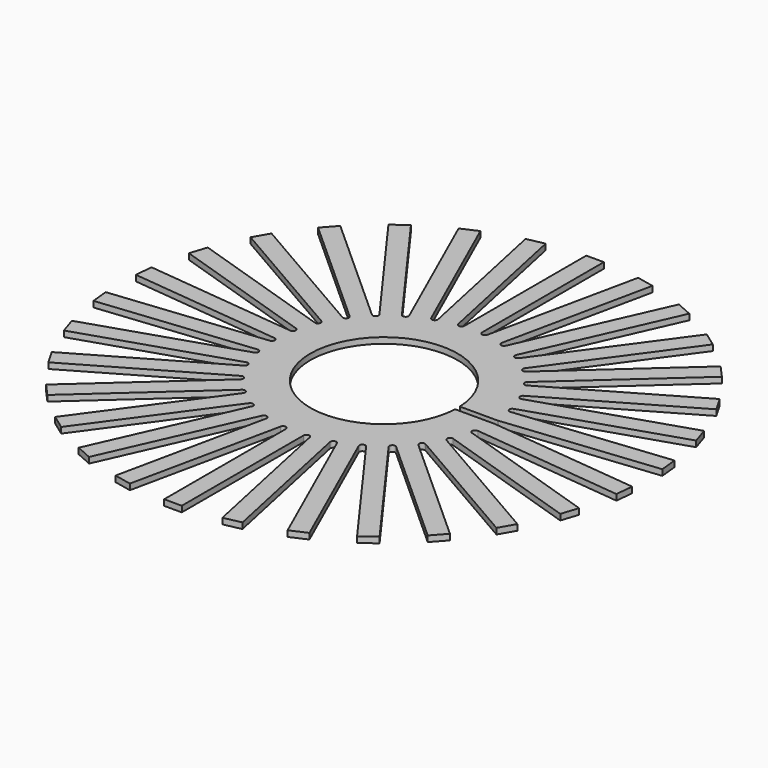
from build123d import *

# Parameters (mm, degrees)
F1_DEPTH = 1.27
F2_R     = 15.9385
F3_DEPTH = 25.4
F4_R     = 0.635
F5_R     = 0.635
F6_R     = 0.635
F7_W     = 41.0254188918
F7_H     = 1.27
F8_DEPTH = 25.4


with BuildPart() as f1:
    # F0 (on Top) → F1 (new body)
    with BuildSketch(Plane.XY):
        Polygon((1.905, 18.1248642853), (1.905, 13.1982271537), (1.3871895718, 13.1982271537), (4.1009418748, 12.6214012949), (3.6278985102, 12.8320137702), (5.6317423588, 17.3327207433), (13.7389212788, 55.4739987931), (10.01217892, 56.2661423351), align=None)
        Polygon((1.3871895718, 13.1982271537), (1.905, 13.1982271537), (1.905, 18.1248642853), (0.8806945439, 13.3058859953), align=None)
        Polygon((-1.3871895718, 13.1982271537), (1.3871895718, 13.1982271537), (0.8806945439, 13.3058859953), (1.905, 18.1248642853), (1.905, 57.1182411757), (-1.905, 57.1182411757), (-1.905, 18.1248642853), (-0.8806945439, 13.3058859953), align=None)
        Polygon((-4.1009418748, 12.6214012949), (-1.3871895718, 13.1982271537), (-1.905, 13.1982271537), (-1.905, 18.1248642853), (-10.01217892, 56.2661423351), (-13.7389212788, 55.4739987931), (-5.6317423588, 17.3327207433), (-3.6278985102, 12.8320137702), align=None)
        Polygon((-1.905, 13.1982271537), (-1.3871895718, 13.1982271537), (-0.8806945439, 13.3058859953), (-1.905, 18.1248642853), align=None)
        Polygon((4.6074369027, 12.5137424533), (4.1009418748, 12.6214012949), (6.6354633393, 11.4929596354), (6.2165459031, 11.7973209686), (9.1123505524, 15.7830541332), (24.972385771, 51.4052764695), (21.4917775774, 52.9549430796), (5.6317423588, 17.3327207433), align=None)
        Polygon((3.6278985102, 12.8320137702), (4.1009418748, 12.6214012949), (4.6074369027, 12.5137424533), (5.6317423588, 17.3327207433), align=None)
        Polygon((-6.6354633393, 11.4929596354), (-4.1009418748, 12.6214012949), (-4.6074369027, 12.5137424533), (-5.6317423588, 17.3327207433), (-21.4917775774, 52.9549430796), (-24.972385771, 51.4052764695), (-9.1123505524, 15.7830541332), (-6.2165459031, 11.7973209686), align=None)
        Polygon((-4.6074369027, 12.5137424533), (-4.1009418748, 12.6214012949), (-3.6278985102, 12.8320137702), (-5.6317423588, 17.3327207433), align=None)
        Polygon((7.1085067038, 11.2823471601), (6.6354633393, 11.4929596354), (8.8799832154, 9.8622204905), (8.5335004096, 10.2470286307), (12.194705301, 13.5435923219), (35.1144371742, 45.0898968943), (32.0320824256, 47.3293587055), (9.1123505524, 15.7830541332), align=None)
        Polygon((6.2165459031, 11.7973209686), (6.6354633393, 11.4929596354), (7.1085067038, 11.2823471601), (9.1123505524, 15.7830541332), align=None)
        Polygon((-8.8799832154, 9.8622204905), (-6.6354633393, 11.4929596354), (-7.1085067038, 11.2823471601), (-9.1123505524, 15.7830541332), (-32.0320824256, 47.3293587055), (-35.1144371742, 45.0898968943), (-12.194705301, 13.5435923219), (-8.5335004096, 10.2470286307), align=None)
        Polygon((-7.1085067038, 11.2823471601), (-6.6354633393, 11.4929596354), (-6.2165459031, 11.7973209686), (-9.1123505524, 15.7830541332), align=None)
        Polygon((9.2989006516, 9.5578591573), (8.8799832154, 9.8622204905), (10.7364052141, 7.8004549859), (10.4775, 8.248891971), (14.7440929112, 10.7122105369), (43.7218191752, 36.8038724595), (41.1724315649, 39.6352542446), (12.194705301, 13.5435923219), align=None)
        Polygon((8.5335004096, 10.2470286307), (8.8799832154, 9.8622204905), (9.2989006516, 9.5578591573), (12.194705301, 13.5435923219), align=None)
        Polygon((-10.7364052141, 7.8004549859), (-8.8799832154, 9.8622204905), (-9.2989006516, 9.5578591573), (-12.194705301, 13.5435923219), (-41.1724315649, 39.6352542446), (-43.7218191752, 36.8038724595), (-14.7440929112, 10.7122105369), (-10.4775, 8.248891971), align=None)
        Polygon((-9.2989006516, 9.5578591573), (-8.8799832154, 9.8622204905), (-8.5335004096, 10.2470286307), (-12.194705301, 13.5435923219), align=None)
        Polygon((11.0828880198, 7.4156468457), (10.7364052141, 7.8004549859), (12.1235947859, 5.3977721678), (11.9635825638, 5.8902391496), (16.6490929112, 7.4126537484), (50.4183478776, 26.9093421936), (48.5133478776, 30.208898982), (14.7440929112, 10.7122105369), align=None)
        Polygon((10.4775, 8.248891971), (10.7364052141, 7.8004549859), (11.0828880198, 7.4156468457), (14.7440929112, 10.7122105369), align=None)
        Polygon((-12.1235947859, 5.3977721678), (-10.7364052141, 7.8004549859), (-11.0828880198, 7.4156468457), (-14.7440929112, 10.7122105369), (-48.5133478776, 30.208898982), (-50.4183478776, 26.9093421936), (-16.6490929112, 7.4126537484), (-11.9635825638, 5.8902391496), align=None)
        Polygon((-11.0828880198, 7.4156468457), (-10.7364052141, 7.8004549859), (-10.4775, 8.248891971), (-14.7440929112, 10.7122105369), align=None)
        Polygon((12.3825, 4.9493351826), (12.1235947859, 5.3977721678), (12.9809250902, 2.7591808045), (12.9267991618, 3.2741546129), (17.8264476598, 3.7891284214), (54.9113528437, 15.8387445485), (53.7339980951, 19.4622698756), (16.6490929112, 7.4126537484), align=None)
        Polygon((11.9635825638, 5.8902391496), (12.1235947859, 5.3977721678), (12.3825, 4.9493351826), (16.6490929112, 7.4126537484), align=None)
        Polygon((-12.9809250902, 2.7591808045), (-12.1235947859, 5.3977721678), (-12.3825, 4.9493351826), (-16.6490929112, 7.4126537484), (-53.7339980951, 19.4622698756), (-54.9113528437, 15.8387445485), (-17.8264476598, 3.7891284214), (-12.9267991618, 3.2741546129), align=None)
        Polygon((-12.3825, 4.9493351826), (-12.1235947859, 5.3977721678), (-11.9635825638, 5.8902391496), (-16.6490929112, 7.4126537484), align=None)
        Polygon((13.1409373123, 2.2667138226), (12.9809250902, 2.7591808045), (13.2709266786, 0), (13.3250526069, 0.5149738084), (18.2247011048, 0), (57.0044681966, 4.075917764), (56.6062147516, 7.8650461853), (17.8264476598, 3.7891284214), align=None)
        Polygon((12.9267991618, 3.2741546129), (12.9809250902, 2.7591808045), (13.1409373123, 2.2667138226), (17.8264476598, 3.7891284214), align=None)
        Polygon((-13.2709266786, 0), (-12.9809250902, 2.7591808045), (-13.1409373123, 2.2667138226), (-17.8264476598, 3.7891284214), (-56.6062147516, 7.8650461853), (-57.0044681966, 4.075917764), (-18.2247011048, 0), (-13.3250526069, 0.5149738084), align=None)
        Polygon((-13.1409373123, 2.2667138226), (-12.9809250902, 2.7591808045), (-12.9267991618, 3.2741546129), (-17.8264476598, 3.7891284214), align=None)
        Polygon((13.3250526069, -0.5149738084), (13.2709266786, 0), (12.9809250902, -2.7591808045), (13.1409373123, -2.2667138226), (17.8264476598, -3.7891284214), (56.6062147516, -7.8650461853), (57.0044681966, -4.075917764), (18.2247011048, 0), align=None)
        Polygon((13.3250526069, 0.5149738084), (13.2709266786, 0), (13.3250526069, -0.5149738084), (18.2247011048, 0), align=None)
        Polygon((-12.9809250902, -2.7591808045), (-13.2709266786, 0), (-13.3250526069, -0.5149738084), (-18.2247011048, 0), (-57.0044681966, -4.075917764), (-56.6062147516, -7.8650461853), (-17.8264476598, -3.7891284214), (-13.1409373123, -2.2667138226), align=None)
        Polygon((-13.3250526069, -0.5149738084), (-13.2709266786, 0), (-13.3250526069, 0.5149738084), (-18.2247011048, 0), align=None)
        Polygon((12.9267991618, -3.2741546129), (12.9809250902, -2.7591808045), (12.1235947859, -5.3977721678), (12.3825, -4.9493351826), (16.6490929112, -7.4126537484), (53.7339980951, -19.4622698756), (54.9113528437, -15.8387445485), (17.8264476598, -3.7891284214), align=None)
        Polygon((13.1409373123, -2.2667138226), (12.9809250902, -2.7591808045), (12.9267991618, -3.2741546129), (17.8264476598, -3.7891284214), align=None)
        Polygon((-12.1235947859, -5.3977721678), (-12.9809250902, -2.7591808045), (-12.9267991618, -3.2741546129), (-17.8264476598, -3.7891284214), (-54.9113528437, -15.8387445485), (-53.7339980951, -19.4622698756), (-16.6490929112, -7.4126537484), (-12.3825, -4.9493351826), align=None)
        Polygon((-12.9267991618, -3.2741546129), (-12.9809250902, -2.7591808045), (-13.1409373123, -2.2667138226), (-17.8264476598, -3.7891284214), align=None)
        Polygon((11.9635825638, -5.8902391496), (12.1235947859, -5.3977721678), (10.7364052141, -7.8004549859), (11.0828880198, -7.4156468457), (14.7440929112, -10.7122105369), (48.5133478776, -30.208898982), (50.4183478776, -26.9093421936), (16.6490929112, -7.4126537484), align=None)
        Polygon((12.3825, -4.9493351826), (12.1235947859, -5.3977721678), (11.9635825638, -5.8902391496), (16.6490929112, -7.4126537484), align=None)
        Polygon((-10.7364052141, -7.8004549859), (-12.1235947859, -5.3977721678), (-11.9635825638, -5.8902391496), (-16.6490929112, -7.4126537484), (-50.4183478776, -26.9093421936), (-48.5133478776, -30.208898982), (-14.7440929112, -10.7122105369), (-11.0828880198, -7.4156468457), align=None)
        Polygon((-11.9635825638, -5.8902391496), (-12.1235947859, -5.3977721678), (-12.3825, -4.9493351826), (-16.6490929112, -7.4126537484), align=None)
        Polygon((10.4775, -8.248891971), (10.7364052141, -7.8004549859), (8.8799832154, -9.8622204905), (9.2989006516, -9.5578591573), (12.194705301, -13.5435923219), (41.1724315649, -39.6352542446), (43.7218191752, -36.8038724595), (14.7440929112, -10.7122105369), align=None)
        Polygon((11.0828880198, -7.4156468457), (10.7364052141, -7.8004549859), (10.4775, -8.248891971), (14.7440929112, -10.7122105369), align=None)
        Polygon((-8.8799832154, -9.8622204905), (-10.7364052141, -7.8004549859), (-10.4775, -8.248891971), (-14.7440929112, -10.7122105369), (-43.7218191752, -36.8038724595), (-41.1724315649, -39.6352542446), (-12.194705301, -13.5435923219), (-9.2989006516, -9.5578591573), align=None)
        Polygon((-10.4775, -8.248891971), (-10.7364052141, -7.8004549859), (-11.0828880198, -7.4156468457), (-14.7440929112, -10.7122105369), align=None)
        Polygon((8.5335004096, -10.2470286307), (8.8799832154, -9.8622204905), (6.6354633393, -11.4929596354), (7.1085067038, -11.2823471601), (9.1123505524, -15.7830541332), (32.0320824256, -47.3293587055), (35.1144371742, -45.0898968943), (12.194705301, -13.5435923219), align=None)
        Polygon((9.2989006516, -9.5578591573), (8.8799832154, -9.8622204905), (8.5335004096, -10.2470286307), (12.194705301, -13.5435923219), align=None)
        Polygon((-6.6354633393, -11.4929596354), (-8.8799832154, -9.8622204905), (-8.5335004096, -10.2470286307), (-12.194705301, -13.5435923219), (-35.1144371742, -45.0898968943), (-32.0320824256, -47.3293587055), (-9.1123505524, -15.7830541332), (-7.1085067038, -11.2823471601), align=None)
        Polygon((-8.5335004096, -10.2470286307), (-8.8799832154, -9.8622204905), (-9.2989006516, -9.5578591573), (-12.194705301, -13.5435923219), align=None)
        Polygon((6.2165459031, -11.7973209686), (6.6354633393, -11.4929596354), (4.1009418748, -12.6214012949), (4.6074369027, -12.5137424533), (5.6317423588, -17.3327207433), (21.4917775774, -52.9549430796), (24.972385771, -51.4052764695), (9.1123505524, -15.7830541332), align=None)
        Polygon((7.1085067038, -11.2823471601), (6.6354633393, -11.4929596354), (6.2165459031, -11.7973209686), (9.1123505524, -15.7830541332), align=None)
        Polygon((-4.1009418748, -12.6214012949), (-6.6354633393, -11.4929596354), (-6.2165459031, -11.7973209686), (-9.1123505524, -15.7830541332), (-24.972385771, -51.4052764695), (-21.4917775774, -52.9549430796), (-5.6317423588, -17.3327207433), (-4.6074369027, -12.5137424533), align=None)
        Polygon((-6.2165459031, -11.7973209686), (-6.6354633393, -11.4929596354), (-7.1085067038, -11.2823471601), (-9.1123505524, -15.7830541332), align=None)
        Polygon((3.6278985102, -12.8320137702), (4.1009418748, -12.6214012949), (1.3871895718, -13.1982271537), (1.905, -13.1982271537), (1.905, -18.1248642853), (10.01217892, -56.2661423351), (13.7389212788, -55.4739987931), (5.6317423588, -17.3327207433), align=None)
        Polygon((4.6074369027, -12.5137424533), (4.1009418748, -12.6214012949), (3.6278985102, -12.8320137702), (5.6317423588, -17.3327207433), align=None)
        Polygon((-1.3871895718, -13.1982271537), (-4.1009418748, -12.6214012949), (-3.6278985102, -12.8320137702), (-5.6317423588, -17.3327207433), (-13.7389212788, -55.4739987931), (-10.01217892, -56.2661423351), (-1.905, -18.1248642853), (-1.905, -13.1982271537), align=None)
        Polygon((-3.6278985102, -12.8320137702), (-4.1009418748, -12.6214012949), (-4.6074369027, -12.5137424533), (-5.6317423588, -17.3327207433), align=None)
        Polygon((0.8806945439, -13.3058859953), (1.3871895718, -13.1982271537), (-1.3871895718, -13.1982271537), (-0.8806945439, -13.3058859953), (-1.905, -18.1248642853), (-1.905, -57.1182411757), (1.905, -57.1182411757), (1.905, -18.1248642853), align=None)
        Polygon((1.905, -13.1982271537), (1.3871895718, -13.1982271537), (0.8806945439, -13.3058859953), (1.905, -18.1248642853), align=None)
        Polygon((-0.8806945439, -13.3058859953), (-1.3871895718, -13.1982271537), (-1.905, -13.1982271537), (-1.905, -18.1248642853), align=None)
    extrude(amount=F1_DEPTH)

    # F2 (on face) → F3 (cut)
    with BuildSketch(Plane.XY.offset(1.27)):
        Circle(F2_R)
    extrude(amount=-F3_DEPTH, mode=Mode.SUBTRACT)

    # F4
    f4_edges = [f1.edges().sort_by_distance(p)[0] for p in [
        (-12.194705, 13.543592, 0.635),
    ]]
    fillet(f4_edges, radius=F4_R)

    # F5
    f5_edges = [f1.edges().sort_by_distance(p)[0] for p in [
        (-9.112351, 15.783054, 0.635),
        (-1.905, 18.124864, 0.635),
        (1.905, 18.124864, 0.635),
        (5.631742, 17.332721, 0.635),
        (9.112351, 15.783054, 0.635),
        (12.194705, 13.543592, 0.635),
        (14.744093, 10.712211, 0.635),
        (16.649093, 7.412654, 0.635),
        (17.826448, 3.789128, 0.635),
        (18.224701, 0, 0.635),
        (17.826448, -3.789128, 0.635),
        (16.649093, -7.412654, 0.635),
        (14.744093, -10.712211, 0.635),
        (12.194705, -13.543592, 0.635),
        (9.112351, -15.783054, 0.635),
        (5.631742, -17.332721, 0.635),
        (1.905, -18.124864, 0.635),
        (-1.905, -18.124864, 0.635),
        (-5.631742, -17.332721, 0.635),
        (-9.112351, -15.783054, 0.635),
        (-12.194705, -13.543592, 0.635),
        (-14.744093, -10.712211, 0.635),
        (-16.649093, -7.412654, 0.635),
        (-17.826448, -3.789128, 0.635),
        (-18.224701, 0, 0.635),
        (-17.826448, 3.789128, 0.635),
        (-16.649093, 7.412654, 0.635),
        (-14.744093, 10.712211, 0.635),
    ]]
    fillet(f5_edges, radius=F5_R)

    # F6
    f6_edges = [f1.edges().sort_by_distance(p)[0] for p in [
        (-5.631742, 17.332721, 0.635),
    ]]
    fillet(f6_edges, radius=F6_R)

    # F7 (on face) → F8 (cut)
    with BuildSketch(Plane(origin=(0, 0, 0), x_dir=(1, 0, 0), z_dir=(0, 0, -1))):
        with Locations((33.822356775, 0.0253999566)):
            Rectangle(F7_W, F7_H)
    extrude(amount=-F8_DEPTH, mode=Mode.SUBTRACT)


solid = f1.part
